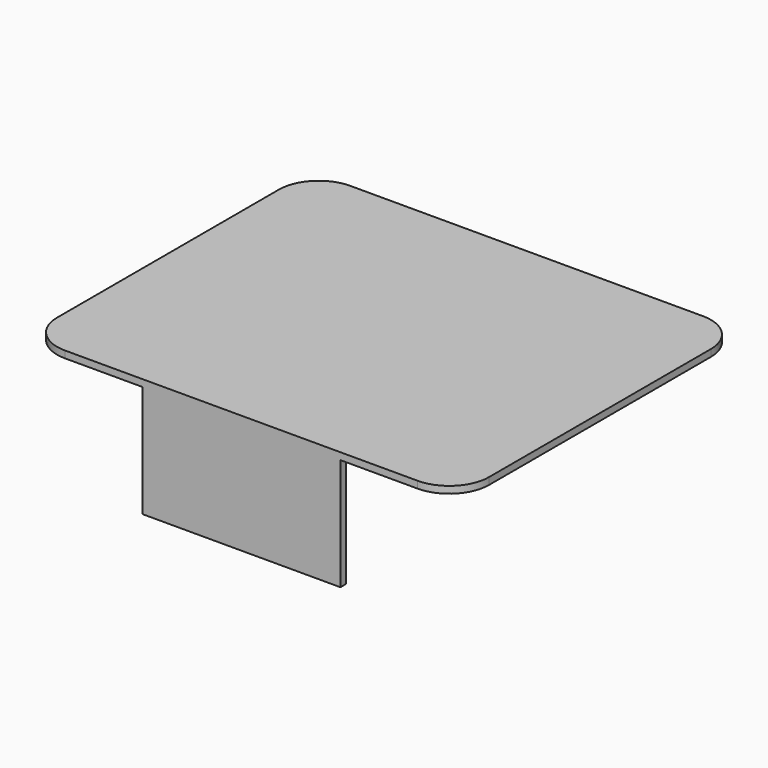
from build123d import *

# Parameters (mm, degrees)
F1_DEPTH = 109
F0_W     = 3.5
F0_H     = 56.5
F2_DEPTH = 50
F3_R     = 20


with BuildPart() as f1:
    # F0 (on Right) → F1 (new body, symmetric)
    with BuildSketch(Plane.YZ):
        Polygon((-415.420956, -354.475219), (-415.420956, -357.975219), (-411.920956, -357.975219), (-235.420956, -357.975219), (-235.420956, -354.475219), align=None)
    extrude(amount=F1_DEPTH, both=True)

    # F0 (on Right) → F2 (join, symmetric)
    with BuildSketch(Plane.YZ):
        with Locations((-413.670956, -386.225219)):
            Rectangle(F0_W, F0_H)
        Polygon((-415.420956, -354.475219), (-415.420956, -357.975219), (-411.920956, -357.975219), (-235.420956, -357.975219), (-235.420956, -354.475219), align=None)
    extrude(amount=F2_DEPTH, both=True)

    # F3
    f3_edges = [f1.edges().sort_by_distance(p)[0] for p in [
        (109, -235.420956, -356.225219),
        (-109, -235.420956, -356.225219),
        (-109, -415.420956, -356.225219),
        (109, -415.420956, -356.225219),
    ]]
    fillet(f3_edges, radius=F3_R)


solid = f1.part
